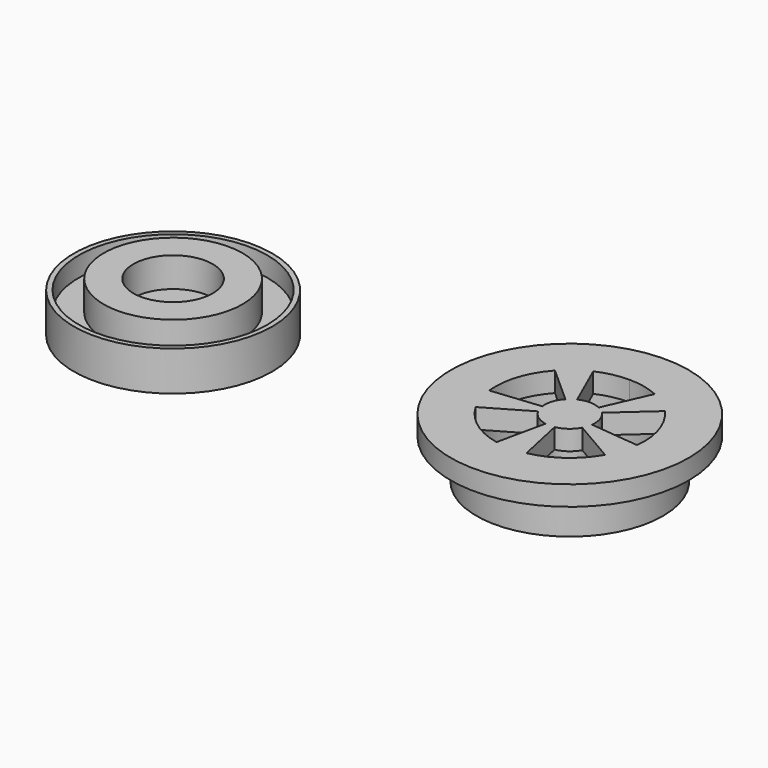
from build123d import *

# Parameters (mm, degrees)
F0_R      = 12.7
F0_R_2    = 5.715
F1_DEPTH  = 2.54
F2_R      = 8.89
F2_R_2    = 5.08
F3_DEPTH  = 3.81
F4_R      = 12.7
F4_R_2    = 12.065
F5_DEPTH  = 2.54
F6_R      = 11.938
F6_R_2    = 10.16
F6_R_3    = 2.54
F7_DEPTH  = 5.08
F8_R      = 15.24
F9_DEPTH  = 2.54
F12_DEPTH = 25.4


with BuildPart() as f1:
    # F0 (on Top) → F1 (new body)
    with BuildSketch(Plane.XY):
        Circle(F0_R)
        Circle(F0_R_2, mode=Mode.SUBTRACT)
        Circle(F0_R_2)
    extrude(amount=F1_DEPTH)

    # F2 (on face) → F3 (join)
    with BuildSketch(Plane.XY.offset(2.54)):
        Circle(F2_R)
        Circle(F2_R_2, mode=Mode.SUBTRACT)
    extrude(amount=F3_DEPTH)

    # F4 (on face) → F5 (join)
    with BuildSketch(Plane.XY.offset(2.54)):
        Circle(F4_R)
        Circle(F4_R_2, mode=Mode.SUBTRACT)
    extrude(amount=F5_DEPTH)


with BuildPart() as f7:
    # F6 (on Top) → F7 (new body)
    with BuildSketch(Plane.XY):
        with Locations((50.8, 0)):
            Circle(F6_R)
        with Locations((50.8, 0)):
            Circle(F6_R_2, mode=Mode.SUBTRACT)
        with Locations((50.8, 0)):
            Circle(F6_R_3)
    extrude(amount=F7_DEPTH)


with BuildPart() as f9:
    # F8 (on face) → F9 (new body)
    with BuildSketch(Plane.XY.offset(5.08)):
        with Locations((50.8, 0)):
            Circle(F8_R)
    extrude(amount=F9_DEPTH)

    # F10: union F7
    add(f7.part)

    # F11 (on face) → F12 (cut)
    with BuildSketch(Plane(origin=(0, 0, 5.08), x_dir=(1, 0, 0), z_dir=(0, 0, -1))):
        with BuildLine():
            ThreePointArc((50.8, -3.214814), (50.090354, -3.135512), (49.415719, -2.901516))
            Line((49.415719, -2.901516), (46.864321, -8.673872))
            ThreePointArc((46.864321, -8.673872), (48.78667, -9.309787), (50.8, -9.525))
            Line((50.8, -9.525), (50.8, -3.214814))
        make_face()
        with BuildLine():
            ThreePointArc((52.184281, -2.901516), (51.509646, -3.135512), (50.8, -3.214814))
            Line((50.8, -3.214814), (50.8, -9.525))
            ThreePointArc((50.8, -9.525), (52.81333, -9.309787), (54.735679, -8.673872))
            Line((54.735679, -8.673872), (52.184281, -2.901516))
        make_face()
        with BuildLine():
            Line((60.265534, 1.06268), (53.987272, 0.419912))
            ThreePointArc((53.987272, 0.419912), (53.85747, -0.993432), (53.13174, -2.213148))
            Line((53.13174, -2.213148), (57.83315, -6.423427))
            ThreePointArc((57.83315, -6.423427), (59.858813, -2.943387), (60.265534, 1.06268))
        make_face()
        with BuildLine():
            Line((52.714342, 9.330644), (51.385561, 3.161036))
            ThreePointArc((51.385561, 3.161036), (52.68962, 2.600839), (53.625376, 1.533716))
            Line((53.625376, 1.533716), (59.082406, 4.703975))
            ThreePointArc((59.082406, 4.703975), (56.398655, 7.705887), (52.714342, 9.330644))
        make_face()
        with BuildLine():
            Line((42.517594, 4.703975), (47.974624, 1.533716))
            ThreePointArc((47.974624, 1.533716), (48.91038, 2.600839), (50.214439, 3.161036))
            Line((50.214439, 3.161036), (48.885658, 9.330644))
            ThreePointArc((48.885658, 9.330644), (45.201345, 7.705887), (42.517594, 4.703975))
        make_face()
        with BuildLine():
            Line((43.76685, -6.423427), (48.46826, -2.213148))
            ThreePointArc((48.46826, -2.213148), (47.74253, -0.993432), (47.612728, 0.419912))
            Line((47.612728, 0.419912), (41.334466, 1.06268))
            ThreePointArc((41.334466, 1.06268), (41.741187, -2.943387), (43.76685, -6.423427))
        make_face()
    extrude(amount=-F12_DEPTH, mode=Mode.SUBTRACT)


solid = Compound([f1.part, f9.part])
